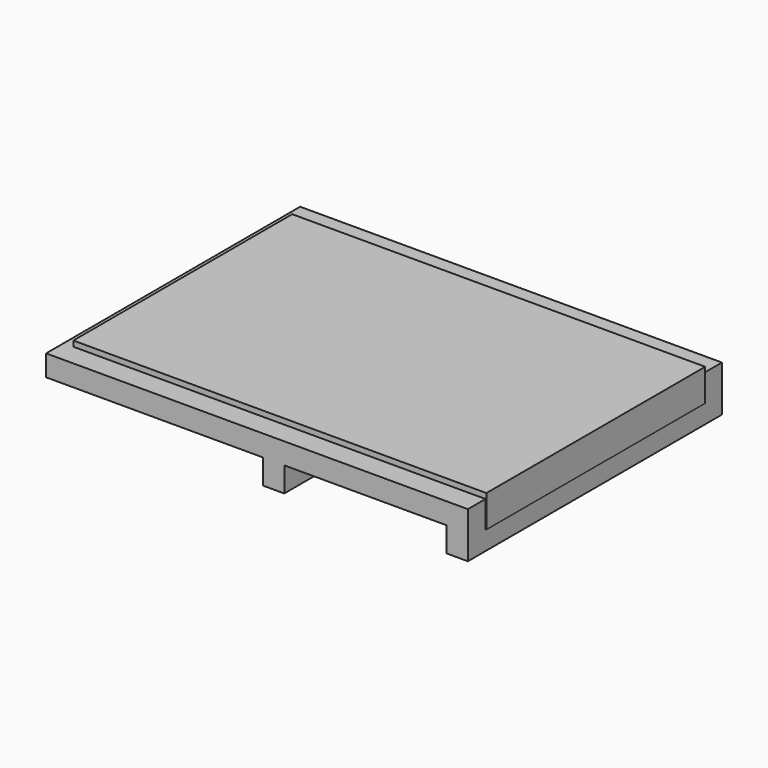
from build123d import *

# Parameters (mm, degrees)
F0_W     = 4.6
F0_H     = 4.8
F0_W_2   = 35.4
F1_DEPTH = 2.3
F0_W_3   = 45.2
F0_H_2   = 59.6
F0_W_4   = 0.2
F2_DEPTH = 3.5
F3_DEPTH = 7.7


with BuildPart() as f1:
    # F0 (on Top) → F1 (new body, symmetric)
    with BuildSketch(Plane.XY):
        Polygon((19.5689408898, 51.453421098), (-27.7310591102, 51.453421098), (-27.7310591102, -17.746578902), (19.5689408898, -17.746578902), (19.5689408898, -12.946578902), (-25.6310591102, -12.946578902), (-25.6310591102, 46.653421098), (19.5689408898, 46.653421098), align=None)
        with Locations((21.8689408898, 49.053421098)):
            Rectangle(F0_W, F0_H)
        with Locations((41.8689408898, 49.053421098)):
            Rectangle(F0_W_2, F0_H)
        with Locations((61.8689408898, 49.053421098)):
            Rectangle(F0_W, F0_H)
        with Locations((21.8689408898, -15.346578902)):
            Rectangle(F0_W, F0_H)
        with Locations((41.8689408898, -15.346578902)):
            Rectangle(F0_W_2, F0_H)
        with Locations((61.8689408898, -15.346578902)):
            Rectangle(F0_W, F0_H)
    extrude(amount=F1_DEPTH, both=True)

    # F0 (on Top) → F2 (join, symmetric)
    with BuildSketch(Plane.XY):
        with Locations((-3.0310591102, 16.853421098)):
            Rectangle(F0_W_3, F0_H_2)
        with Locations((21.8689408898, 16.853421098)):
            Rectangle(F0_W, F0_H_2)
        with Locations((41.8689408898, 16.853421098)):
            Rectangle(F0_W_2, F0_H_2)
        with Locations((61.8689408898, 16.853421098)):
            Rectangle(F0_W, F0_H_2)
        with Locations((64.2689408898, 16.853421098)):
            Rectangle(F0_W_4, F0_H_2)
    extrude(amount=F2_DEPTH, both=True)

    # F0 (on Top) → F3 (join)
    with BuildSketch(Plane.XY):
        with Locations((21.8689408898, 16.853421098)):
            Rectangle(F0_W, F0_H_2)
        with Locations((21.8689408898, 49.053421098)):
            Rectangle(F0_W, F0_H)
        with Locations((21.8689408898, -15.346578902)):
            Rectangle(F0_W, F0_H)
        with Locations((61.8689408898, -15.346578902)):
            Rectangle(F0_W, F0_H)
        with Locations((61.8689408898, 16.853421098)):
            Rectangle(F0_W, F0_H_2)
        with Locations((61.8689408898, 49.053421098)):
            Rectangle(F0_W, F0_H)
    extrude(amount=-F3_DEPTH)


solid = f1.part
